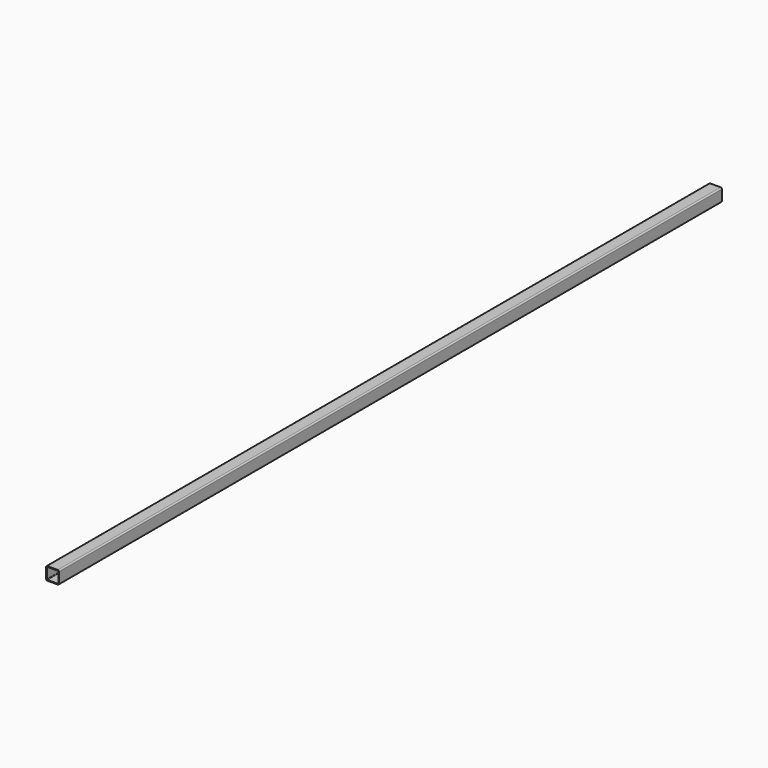
from build123d import *

# Parameters (mm, degrees)
F1_DEPTH = 800


with BuildPart() as f1:
    # F0 (on Front) → F1 (new body, symmetric)
    with BuildSketch(Plane.XZ):
        with BuildLine():
            ThreePointArc((12.5, 10), (11.767766953, 11.767766953), (10, 12.5))
            Line((10, 12.5), (-10, 12.5))
            ThreePointArc((-10, 12.5), (-11.767766953, 11.767766953), (-12.5, 10))
            Line((-12.5, 10), (-12.5, -10))
            ThreePointArc((-12.5, -10), (-11.767766953, -11.767766953), (-10, -12.5))
            Line((-10, -12.5), (10, -12.5))
            ThreePointArc((10, -12.5), (11.767766953, -11.767766953), (12.5, -10))
            Line((12.5, -10), (12.5, 10))
        make_face()
        with BuildLine():
            ThreePointArc((10, 11), (10.7071067812, 10.7071067812), (11, 10))
            Line((11, 10), (11, -10))
            ThreePointArc((11, -10), (10.7071067812, -10.7071067812), (10, -11))
            Line((10, -11), (-10, -11))
            ThreePointArc((-10, -11), (-10.7071067812, -10.7071067812), (-11, -10))
            Line((-11, -10), (-11, 10))
            ThreePointArc((-11, 10), (-10.7071067812, 10.7071067812), (-10, 11))
            Line((-10, 11), (10, 11))
        make_face(mode=Mode.SUBTRACT)
    extrude(amount=F1_DEPTH, both=True)


solid = f1.part
